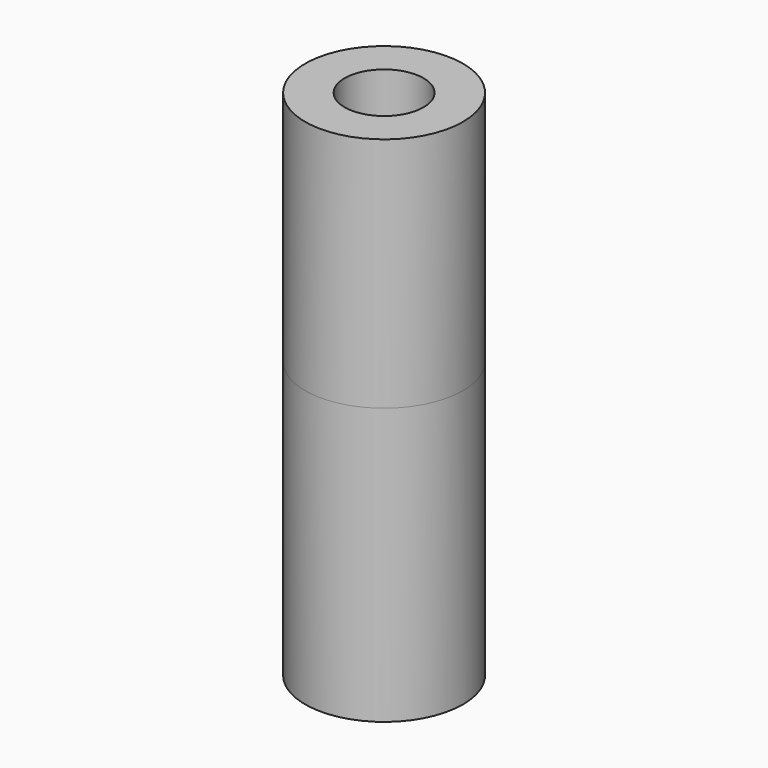
from build123d import *

# Parameters (mm, degrees)
F0_R     = 6.35
F0_R_2   = 3.175
F1_DEPTH = 14.2875
F2_R     = 6.35
F3_DEPTH = 4.7625
F4_R     = 6.35
F4_R_2   = 1.579033
F5_DEPTH = 22.225


with BuildPart() as f1:
    # F0 (on Top) → F1 (new body)
    with BuildSketch(Plane.XY):
        Circle(F0_R)
        Circle(F0_R_2, mode=Mode.SUBTRACT)
    extrude(amount=F1_DEPTH)

    # F2 (on face) → F3 (join)
    with BuildSketch(Plane.XY):
        Circle(F2_R)
    extrude(amount=-F3_DEPTH)

    # F4 (on face) → F5 (join)
    with BuildSketch(Plane(origin=(0, 0, -4.7625), x_dir=(1, 0, 0), z_dir=(0, 0, -1))):
        Circle(F4_R)
        Circle(F4_R_2, mode=Mode.SUBTRACT)
    extrude(amount=F5_DEPTH)


solid = f1.part
